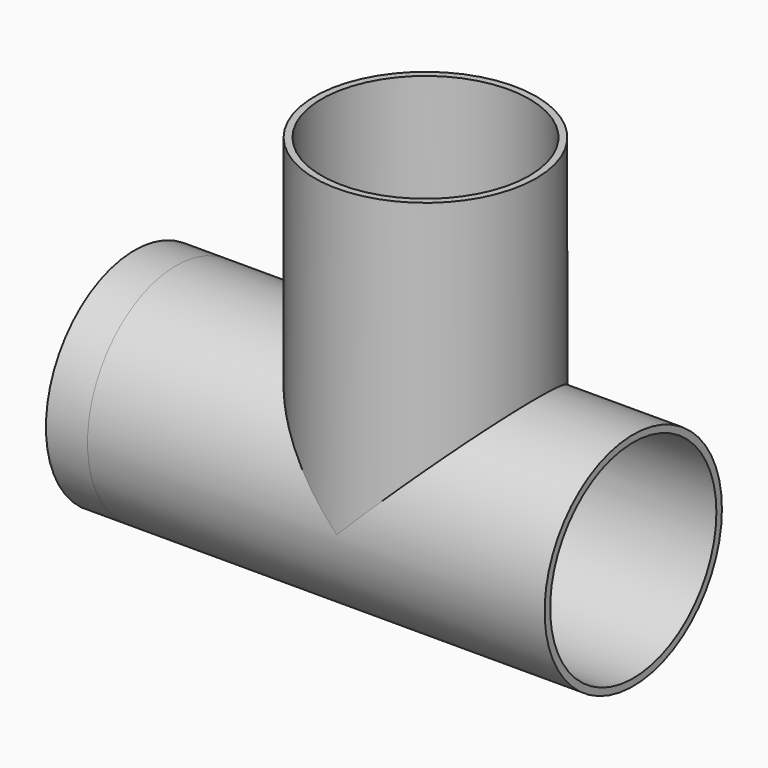
from build123d import *

# Parameters (mm, degrees)
F0_R      = 80
F0_R_2    = 75
F1_DEPTH  = 180
F2_R      = 80
F2_R_2    = 75
F3_DEPTH  = 220
F4_DEPTH  = 30
F5_DEPTH  = 30
F6_R      = 75
F7_DEPTH  = 250
F8_R      = 75
F9_DEPTH  = 250
F10_R     = 75
F11_DEPTH = 500


with BuildPart() as f1:
    # F0 (on Right) → F1 (new body, symmetric)
    with BuildSketch(Plane.YZ):
        Circle(F0_R)
        Circle(F0_R_2, mode=Mode.SUBTRACT)
        Circle(F0_R)
        Circle(F0_R_2, mode=Mode.SUBTRACT)
    extrude(amount=F1_DEPTH, both=True)

    # F4 (add): a face of the model
    f4_faces = [f1.faces().sort_by_distance(p)[0] for p in [
        (-180, -77.7372583002, 0),
    ]]


with BuildPart() as f3:
    # F2 (on Top) → F3 (new body)
    with BuildSketch(Plane.XY):
        Circle(F2_R)
        Circle(F2_R_2, mode=Mode.SUBTRACT)
    extrude(amount=F3_DEPTH)


with BuildPart() as f1_1:
    add(f1.part)

    add(f3.part)  # F4 merges F3
    extrude(f4_faces, amount=F4_DEPTH)

    # F5 (cut): a face of the model
    f5_faces = [f1_1.faces().sort_by_distance(p)[0] for p in [
        (180, -77.7372583002, 0),
    ]]
    extrude(f5_faces, amount=-F5_DEPTH, mode=Mode.SUBTRACT)

    # F6 (on Right) → F7 (cut, symmetric)
    with BuildSketch(Plane.YZ):
        Circle(F6_R)
    extrude(amount=F7_DEPTH, both=True, mode=Mode.SUBTRACT)

    # F8 (on Right) → F9 (cut, symmetric)
    with BuildSketch(Plane.YZ):
        Circle(F8_R)
    extrude(amount=F9_DEPTH, both=True, mode=Mode.SUBTRACT)

    # F10 (on Top) → F11 (cut)
    with BuildSketch(Plane.XY):
        Circle(F10_R)
    extrude(amount=F11_DEPTH, mode=Mode.SUBTRACT)


with BuildPart() as f12_1:
    # F12: copy of F1
    add(f1_1.part)


solid = f1_1.part
